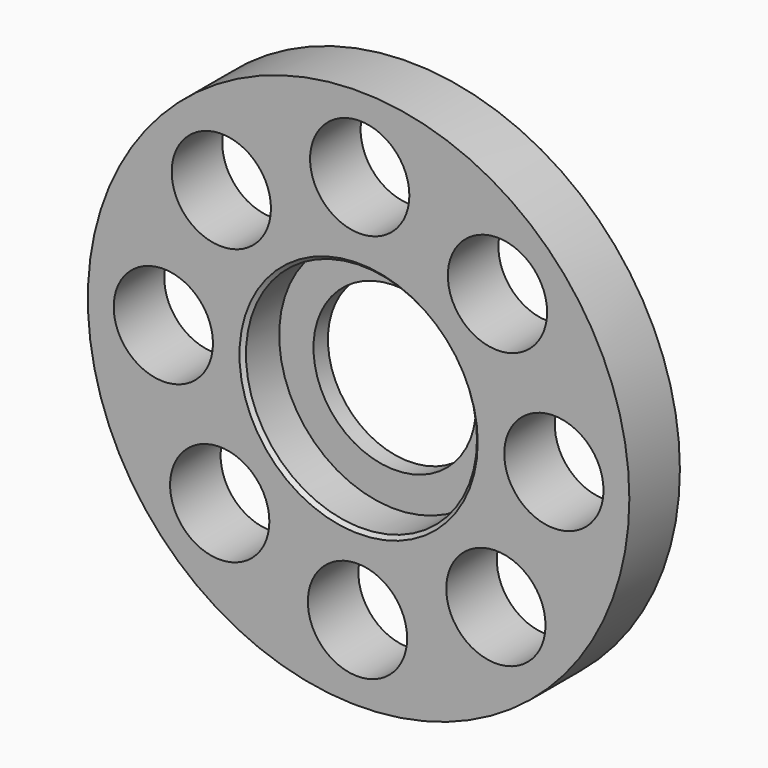
from build123d import *

# Parameters (mm, degrees)
SKETCH001_R  = 5.5
POCKET_DEPTH = 7.001
CHAMFER_SIZE = 0.4


with BuildPart() as part:
    # Sketch → Revolution (revolve)
    with BuildSketch(Plane.XY):
        Polygon((30, 0), (30, 7), (9, 7), (9, 5), (12.8, 5), (12.8, 0), align=None)
    revolve(axis=Axis((0, 0, 0), (0, 1, 0)))

    # Sketch001 (on Face6 of Revolution) → Pocket (cut, through all)
    with BuildSketch(Plane.XZ):
        with Locations((0.124373, 21.635731)):
            Circle(SKETCH001_R)
        with Locations((15.386717, 15.210827)):
            Circle(SKETCH001_R)
        with Locations((21.635731, -0.124373)):
            Circle(SKETCH001_R)
        with Locations((15.210827, -15.386717)):
            Circle(SKETCH001_R)
        with Locations((-0.124373, -21.635731)):
            Circle(SKETCH001_R)
        with Locations((-15.386717, -15.210827)):
            Circle(SKETCH001_R)
        with Locations((-21.635731, 0.124373)):
            Circle(SKETCH001_R)
        with Locations((-15.210827, 15.386717)):
            Circle(SKETCH001_R)
    extrude(amount=-POCKET_DEPTH, mode=Mode.SUBTRACT)

    # Chamfer
    chamfer_edges = [part.edges().sort_by_distance(p)[0] for p in [
        (-12.8, 0, 0),
    ]]
    chamfer(chamfer_edges, length=CHAMFER_SIZE)


solid = part.part
